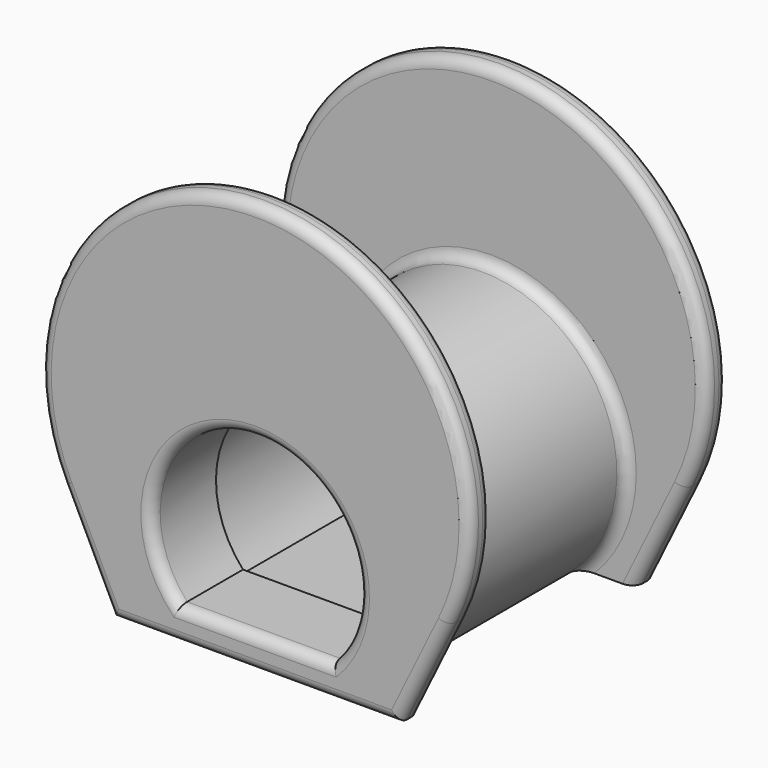
from build123d import *

# Parameters (mm, degrees)
F1_DEPTH  = 30
F2_DEPTH  = 2.5
F4_DEPTH  = 2.5
F5_SIZE2  = 3
F5_SIZE   = 1
F6_R      = 1
F7_R      = 1
F10_DEPTH = 7.5


with BuildPart() as f1:
    # F0 (on Front) → F1 (new body)
    with BuildSketch(Plane.XZ):
        with BuildLine():
            Line((-8.124038, -9.5), (8.124038, -9.5))
            ThreePointArc((8.124038, -9.5), (0, 12.5), (-8.124038, -9.5))
        make_face()
        with BuildLine():
            ThreePointArc((-7.132496, -6.5), (0, 9.65), (7.132496, -6.5))
            Line((7.132496, -6.5), (-7.132496, -6.5))
        make_face(mode=Mode.SUBTRACT)
    extrude(amount=F1_DEPTH)

    # F0 (on Front) → F2 (join)
    with BuildSketch(Plane.XZ):
        with BuildLine():
            ThreePointArc((-8.124038, -9.5), (0, 12.5), (8.124038, -9.5))
            Line((8.124038, -9.5), (13.333003, -9.5))
            Line((13.333003, -9.5), (17.971858, 0))
            ThreePointArc((17.971858, 0), (0, 28.775667), (-17.971858, 0))
            Line((-17.971858, 0), (-13.333003, -9.5))
            Line((-13.333003, -9.5), (-8.124038, -9.5))
        make_face()
    extrude(amount=F2_DEPTH)

    # F3 (on face) → F4 (join)
    with BuildSketch(Plane.XZ.offset(30)):
        with BuildLine():
            Line((13.333003, -9.5), (17.971858, 0))
            ThreePointArc((17.971858, 0), (0, 28.775667), (-17.971858, 0))
            Line((-17.971858, 0), (-13.333003, -9.5))
            Line((-13.333003, -9.5), (-8.124038, -9.5))
            ThreePointArc((-8.124038, -9.5), (0, 12.5), (8.124038, -9.5))
            Line((8.124038, -9.5), (13.333003, -9.5))
        make_face()
    extrude(amount=-F4_DEPTH)

    # F5
    f5_edges = [f1.edges().sort_by_distance(p)[0] for p in [
        (0, 0, 9.65),
        (0, 0, -6.5),
    ]]
    chamfer(f5_edges, length=F5_SIZE, length2=F5_SIZE2)

    # F6
    f6_edges = [f1.edges().sort_by_distance(p)[0] for p in [
        (0, -2.5, 12.5),
        (0, -27.5, 12.5),
        (0, 0, 28.775667),
        (0, -30, 28.775667),
        (0, 0, -9.5),
        (0, -30, -9.5),
        (0, -30, 9.65),
        (0, -30, -6.5),
    ]]
    fillet(f6_edges, radius=F6_R)

    # F7
    f7_edges = [f1.edges().sort_by_distance(p)[0] for p in [
        (0, -27.5, 28.775667),
        (0, -2.5, 28.775667),
    ]]
    fillet(f7_edges, radius=F7_R)

    # F9 (on offset) → F10 (cut, symmetric)
    with BuildSketch(Plane.XZ.offset(15)):
        with BuildLine():
            ThreePointArc((7.35, -7), (0, 10.15), (-7.35, -7))
            Line((-7.35, -7), (7.35, -7))
        make_face()
        with BuildLine():
            ThreePointArc((-7.132496, -6.5), (0, 9.65), (7.132496, -6.5))
            Line((7.132496, -6.5), (-7.132496, -6.5))
        make_face(mode=Mode.SUBTRACT)
    extrude(amount=F10_DEPTH, both=True, mode=Mode.SUBTRACT)


solid = f1.part
